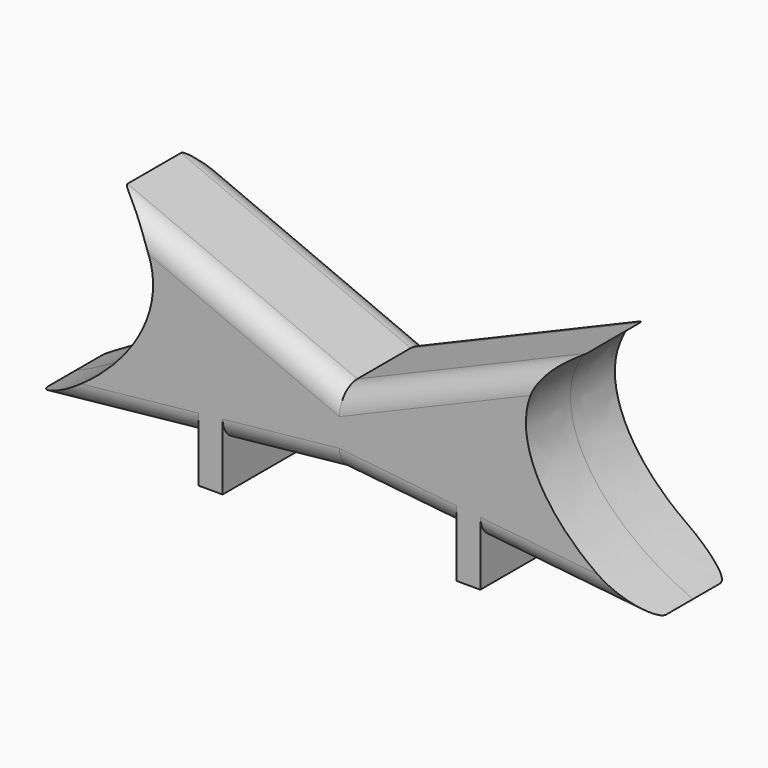
from build123d import *

# Parameters (mm, degrees)
F1_DEPTH = 12.7
F2_DEPTH = 25.4
F3_R     = 5.08
F5_DEPTH = 19.812


with BuildPart() as f1:
    # F0 (on Front) → F1 (new body)
    with BuildSketch(Plane.XZ):
        with BuildLine():
            Line((52.4458624423, 35.3338979185), (0, 13.1345894188))
            Line((0, 13.1345894188), (-52.4458624423, 35.3338979185))
            add(Edge.make_bspline(
                [(-52.4458624423, 35.3338979185), (-33.2064628601, 25.1592136919), (-43.5661375523, 0), (-70.5752968788, -11.2846475095)],
                knots=[0, 0, 0, 0, 50.0196478477, 50.0196478477, 50.0196478477, 50.0196478477], degree=3))
            Line((-70.5752968788, -11.2846475095), (-32.1640369767, -7.2572545808))
            Line((-32.1640369767, -7.2572545808), (-26.6933627427, -6.6836583285))
            Line((-26.6933627427, -6.6836583285), (0, -3.8848784752))
            Line((0, -3.8848784752), (26.6933627427, -6.6836583285))
            Line((26.6933627427, -6.6836583285), (32.1640369767, -7.2572545808))
            Line((32.1640369767, -7.2572545808), (70.5752968788, -11.2846475095))
            add(Edge.make_bspline(
                [(52.4458624423, 35.3338979185), (33.2064628601, 25.1592136919), (43.5661375523, 0), (70.5752968788, -11.2846475095)],
                knots=[0, 0, 0, 0, 50.0196478477, 50.0196478477, 50.0196478477, 50.0196478477], degree=3))
        make_face()
    extrude(amount=F1_DEPTH)

    # F0 (on Front) → F2 (join)
    with BuildSketch(Plane.XZ):
        with BuildLine():
            Line((52.4458624423, 35.3338979185), (0, 13.1345894188))
            Line((0, 13.1345894188), (-52.4458624423, 35.3338979185))
            add(Edge.make_bspline(
                [(-52.4458624423, 35.3338979185), (-33.2064628601, 25.1592136919), (-43.5661375523, 0), (-70.5752968788, -11.2846475095)],
                knots=[0, 0, 0, 0, 50.0196478477, 50.0196478477, 50.0196478477, 50.0196478477], degree=3))
            Line((-70.5752968788, -11.2846475095), (-32.1640369767, -7.2572545808))
            Line((-32.1640369767, -7.2572545808), (-26.6933627427, -6.6836583285))
            Line((-26.6933627427, -6.6836583285), (0, -3.8848784752))
            Line((0, -3.8848784752), (26.6933627427, -6.6836583285))
            Line((26.6933627427, -6.6836583285), (32.1640369767, -7.2572545808))
            Line((32.1640369767, -7.2572545808), (70.5752968788, -11.2846475095))
            add(Edge.make_bspline(
                [(52.4458624423, 35.3338979185), (33.2064628601, 25.1592136919), (43.5661375523, 0), (70.5752968788, -11.2846475095)],
                knots=[0, 0, 0, 0, 50.0196478477, 50.0196478477, 50.0196478477, 50.0196478477], degree=3))
        make_face()
        Polygon((-26.6933627427, -6.6836583285), (-32.1640369767, -7.2572545808), (-32.1640369767, -16.7267285287), (-26.6933627427, -16.7267285287), align=None)
        Polygon((32.1640369767, -16.7267285287), (32.1640369767, -7.2572545808), (26.6933627427, -6.6836583285), (26.6933627427, -16.7267285287), align=None)
    extrude(amount=F2_DEPTH)

    # F3
    f3_edges = [f1.edges().sort_by_distance(p)[0] for p in [
        (-26.222931, -25.4, 24.234244),
        (26.222931, -25.4, 24.234244),
        (-26.222931, 0, 24.234244),
        (26.222931, 0, 24.234244),
        (51.369667, -25.4, -9.270951),
        (13.346681, -25.4, -5.284268),
        (-13.346681, -25.4, -5.284268),
        (-51.369667, -25.4, -9.270951),
        (51.369667, 0, -9.270951),
        (13.346681, 0, -5.284268),
        (-13.346681, 0, -5.284268),
        (-51.369667, 0, -9.270951),
    ]]
    fillet(f3_edges, radius=F3_R)

    # F4 (on face) → F5 (join)
    with BuildSketch(Plane.XZ.offset(25.4)):
        with BuildLine():
            Line((-1.0620621516, 7.1502164938), (-12.1599985287, 7.1502164938))
            Line((-12.1599985287, 7.1502164938), (-12.1599985287, 2.2335385438))
            Line((-12.1599985287, 2.2335385438), (-11.2093127532, 2.2335385438))
            Line((-11.2093127532, 2.2335385438), (-9.1895056006, 6.5985840067))
            Line((-9.1895056006, 6.5985840067), (-11.8463042324, 6.5985840067))
            Line((-11.8463042324, 6.5985840067), (-11.8463042324, 7.1086039851))
            Line((-11.8463042324, 7.1086039851), (-8.6026625293, 7.1086039851))
            Line((-8.6026625293, 7.1086039851), (-8.6026625293, 6.6647372257))
            Line((-8.6026625293, 6.6647372257), (-10.5957949968, 2.2335385438))
            Line((-10.5957949968, 2.2335385438), (-7.6288252286, 2.2335385438))
            add(Edge.make_bspline(
                [(-7.6288252286, 2.2335385438), (-7.6332434575, 2.2374605361), (-7.6375724239, 2.2415409493)],
                knots=[0.9611752535, 0.9611752535, 0.9611752535, 1, 1, 1], degree=2))
            add(Edge.make_bspline(
                [(-7.6375724239, 2.2415409493), (-7.7490726074, 2.3466392085), (-7.7490726074, 2.586711374)],
                knots=[0, 0, 0, 1, 1, 1], degree=2))
            add(Edge.make_bspline(
                [(-7.7490726074, 2.586711374), (-7.7490726074, 2.8107787285), (-7.6471753105, 2.9254798742)],
                knots=[0, 0, 0, 1, 1, 1], degree=2))
            add(Edge.make_bspline(
                [(-7.6471753105, 2.9254798742), (-7.5452780136, 3.04018102), (-7.355354256, 3.04018102)],
                knots=[0, 0, 0, 1, 1, 1], degree=2))
            add(Edge.make_bspline(
                [(-7.355354256, 3.04018102), (-7.1622295361, 3.04018102), (-7.0539303148, 2.9254798742)],
                knots=[0, 0, 0, 1, 1, 1], degree=2))
            add(Edge.make_bspline(
                [(-7.0539303148, 2.9254798742), (-6.9456310935, 2.8107787285), (-6.9456310935, 2.586711374)],
                knots=[0, 0, 0, 1, 1, 1], degree=2))
            add(Edge.make_bspline(
                [(-6.9456310935, 2.586711374), (-6.9456310935, 2.3701129313), (-7.0555307959, 2.2532778107)],
                knots=[0, 0, 0, 1, 1, 1], degree=2))
            add(Edge.make_bspline(
                [(-7.0555307959, 2.2532778107), (-7.0652437796, 2.2429518718), (-7.0755818393, 2.2335385438)],
                knots=[0, 0, 0, 0.0883804366, 0.0883804366, 0.0883804366], degree=2))
            Line((-7.0755818393, 2.2335385438), (-3.9249897575, 2.2335385438))
            Line((-3.9249897575, 2.2335385438), (-3.9249897575, 3.3538753163))
            Line((-3.9249897575, 3.3538753163), (-6.2958357654, 3.3538753163))
            Line((-6.2958357654, 3.3538753163), (-6.2958357654, 3.8372206095))
            Line((-6.2958357654, 3.8372206095), (-3.9815400898, 7.1352786701))
            Line((-3.9815400898, 7.1352786701), (-3.3946970185, 7.1352786701))
            Line((-3.3946970185, 7.1352786701), (-3.3946970185, 3.8574933702))
            Line((-3.3946970185, 3.8574933702), (-2.6712795597, 3.8574933702))
            Line((-2.6712795597, 3.8574933702), (-2.6712795597, 3.3538753163))
            Line((-2.6712795597, 3.3538753163), (-3.3946970185, 3.3538753163))
            Line((-3.3946970185, 3.3538753163), (-3.3946970185, 2.2335385438))
            Line((-3.3946970185, 2.2335385438), (-1.640698507, 2.2335385438))
            add(Edge.make_bspline(
                [(-1.640698507, 2.2335385438), (-1.9389440856, 2.2937967953), (-2.2210108759, 2.4298642258)],
                knots=[0.0691615274, 0.0691615274, 0.0691615274, 1, 1, 1], degree=2))
            Line((-2.2210108759, 2.4298642258), (-2.2210108759, 2.9569560026))
            add(Edge.make_bspline(
                [(-2.2210108759, 2.9569560026), (-1.9041156174, 2.8001088544), (-1.5456078503, 2.7184843182)],
                knots=[0, 0, 0, 1, 1, 1], degree=2))
            add(Edge.make_bspline(
                [(-1.5456078503, 2.7184843182), (-1.1871000831, 2.6368597819), (-0.8670038624, 2.6368597819)],
                knots=[0, 0, 0, 1, 1, 1], degree=2))
            add(Edge.make_bspline(
                [(-0.8670038624, 2.6368597819), (0.396309222, 2.6368597819), (0.396309222, 3.6270240913)],
                knots=[0, 0, 0, 1, 1, 1], degree=2))
            add(Edge.make_bspline(
                [(0.396309222, 3.6270240913), (0.396309222, 4.51475761), (-0.9971763255, 4.51475761)],
                knots=[0, 0, 0, 1, 1, 1], degree=2))
            Line((-0.9971763255, 4.51475761), (-1.4773206565, 4.51475761))
            Line((-1.4773206565, 4.51475761), (-1.4773206565, 4.9906339914))
            Line((-1.4773206565, 4.9906339914), (-0.990774401, 4.9906339914))
            add(Edge.make_bspline(
                [(-0.990774401, 4.9906339914), (-0.4210031282, 4.9906339914), (-0.087569565, 5.2424430184)],
                knots=[0, 0, 0, 1, 1, 1], degree=2))
            add(Edge.make_bspline(
                [(-0.087569565, 5.2424430184), (0.2458639983, 5.4942520453), (0.2458639983, 5.9413197669)],
                knots=[0, 0, 0, 1, 1, 1], degree=2))
            add(Edge.make_bspline(
                [(0.2458639983, 5.9413197669), (0.2458639983, 6.2976935593), (0.0009903894, 6.5014881531)],
                knots=[0, 0, 0, 1, 1, 1], degree=2))
            add(Edge.make_bspline(
                [(0.0009903894, 6.5014881531), (-0.2438832194, 6.705282747), (-0.6642762559, 6.705282747)],
                knots=[0, 0, 0, 1, 1, 1], degree=2))
            add(Edge.make_bspline(
                [(-0.6642762559, 6.705282747), (-0.9843724766, 6.705282747), (-1.2676576319, 6.6183232737)],
                knots=[0, 0, 0, 1, 1, 1], degree=2))
            add(Edge.make_bspline(
                [(-1.2676576319, 6.6183232737), (-1.5509427873, 6.5313638004), (-1.9147854915, 6.2976935593)],
                knots=[0, 0, 0, 1, 1, 1], degree=2))
            Line((-1.9147854915, 6.2976935593), (-2.1943361909, 6.6711391501))
            add(Edge.make_bspline(
                [(-2.1943361909, 6.6711391501), (-1.8945127308, 6.9080103534), (-1.5029283542, 7.0429842598)],
                knots=[0, 0, 0, 1, 1, 1], degree=2))
            add(Edge.make_bspline(
                [(-1.5029283542, 7.0429842598), (-1.2888719394, 7.116766648), (-1.0620621516, 7.1502164938)],
                knots=[0, 0, 0, 0.5466418669, 0.5466418669, 0.5466418669], degree=2))
        make_face()
        with BuildLine():
            add(Edge.make_bspline(
                [(-7.6375724239, 5.1864261798), (-7.7490726074, 5.2915244389), (-7.7490726074, 5.5315966044)],
                knots=[0, 0, 0, 1, 1, 1], degree=2))
            add(Edge.make_bspline(
                [(-7.7490726074, 5.5315966044), (-7.7490726074, 5.9818652882), (-7.355354256, 5.9818652882)],
                knots=[0, 0, 0, 1, 1, 1], degree=2))
            add(Edge.make_bspline(
                [(-7.355354256, 5.9818652882), (-6.9456310935, 5.9818652882), (-6.9456310935, 5.5315966044)],
                knots=[0, 0, 0, 1, 1, 1], degree=2))
            add(Edge.make_bspline(
                [(-6.9456310935, 5.5315966044), (-6.9456310935, 5.3149981617), (-7.0555307959, 5.1981630412)],
                knots=[0, 0, 0, 1, 1, 1], degree=2))
            add(Edge.make_bspline(
                [(-7.0555307959, 5.1981630412), (-7.1654304983, 5.0813279206), (-7.355354256, 5.0813279206)],
                knots=[0, 0, 0, 1, 1, 1], degree=2))
            add(Edge.make_bspline(
                [(-7.355354256, 5.0813279206), (-7.5260722403, 5.0813279206), (-7.6375724239, 5.1864261798)],
                knots=[0, 0, 0, 1, 1, 1], degree=2))
        make_face(mode=Mode.SUBTRACT)
        with BuildLine():
            Line((12.5685015078, 7.1502164938), (-0.2893760982, 7.1502164938))
            add(Edge.make_bspline(
                [(-0.2893760982, 7.1502164938), (0.1475144145, 7.0830202677), (0.4261848693, 6.8530605022)],
                knots=[0.2922086215, 0.2922086215, 0.2922086215, 1, 1, 1], degree=2))
            add(Edge.make_bspline(
                [(0.4261848693, 6.8530605022), (0.8199032207, 6.5281628382), (0.8199032207, 5.9615925276)],
                knots=[0, 0, 0, 1, 1, 1], degree=2))
            add(Edge.make_bspline(
                [(0.8199032207, 5.9615925276), (0.8199032207, 5.4942520453), (0.5579578134, 5.1976295475)],
                knots=[0, 0, 0, 1, 1, 1], degree=2))
            add(Edge.make_bspline(
                [(0.5579578134, 5.1976295475), (0.2960124062, 4.9010070496), (-0.1841319249, 4.8007102338)],
                knots=[0, 0, 0, 1, 1, 1], degree=2))
            Line((-0.1841319249, 4.8007102338), (-0.1841319249, 4.7740355488))
            add(Edge.make_bspline(
                [(-0.1841319249, 4.7740355488), (0.4027111464, 4.7014804054), (0.6859963017, 4.4011234516)],
                knots=[0, 0, 0, 1, 1, 1], degree=2))
            add(Edge.make_bspline(
                [(0.6859963017, 4.4011234516), (0.969281457, 4.1007664979), (0.969281457, 3.6142202424)],
                knots=[0, 0, 0, 1, 1, 1], degree=2))
            add(Edge.make_bspline(
                [(0.969281457, 3.6142202424), (0.969281457, 2.9174774687), (0.4859361638, 2.5418979031)],
                knots=[0, 0, 0, 1, 1, 1], degree=2))
            add(Edge.make_bspline(
                [(0.4859361638, 2.5418979031), (0.2070735074, 2.3252099228), (-0.2071054134, 2.2335385438)],
                knots=[0, 0, 0, 0.5769429439, 0.5769429439, 0.5769429439], degree=2))
            Line((-0.2071054134, 2.2335385438), (3.8138698717, 2.2335385438))
            Line((3.8138698717, 2.2335385438), (3.8138698717, 7.1086039851))
            Line((3.8138698717, 7.1086039851), (6.5314867854, 7.1086039851))
            Line((6.5314867854, 7.1086039851), (6.5314867854, 6.6049859312))
            Line((6.5314867854, 6.6049859312), (4.3804401823, 6.6049859312))
            Line((4.3804401823, 6.6049859312), (4.3804401823, 4.8209829945))
            Line((4.3804401823, 4.8209829945), (6.4013143223, 4.8209829945))
            Line((6.4013143223, 4.8209829945), (6.4013143223, 4.3173649406))
            Line((6.4013143223, 4.3173649406), (4.3804401823, 4.3173649406))
            Line((4.3804401823, 4.3173649406), (4.3804401823, 2.2335385438))
            Line((4.3804401823, 2.2335385438), (7.3381292616, 2.2335385438))
            Line((7.3381292616, 2.2335385438), (7.3381292616, 7.1086039851))
            Line((7.3381292616, 7.1086039851), (8.6750644767, 7.1086039851))
            add(Edge.make_bspline(
                [(8.6750644767, 7.1086039851), (9.5724008821, 7.1086039851), (10.0007963241, 6.7650340415)],
                knots=[0, 0, 0, 1, 1, 1], degree=2))
            add(Edge.make_bspline(
                [(10.0007963241, 6.7650340415), (10.4291917661, 6.421464098), (10.4291917661, 5.7311232487)],
                knots=[0, 0, 0, 1, 1, 1], degree=2))
            add(Edge.make_bspline(
                [(10.4291917661, 5.7311232487), (10.4291917661, 4.7644326621), (9.4486303434, 4.4240636808)],
                knots=[0, 0, 0, 1, 1, 1], degree=2))
            Line((9.4486303434, 4.4240636808), (10.7727617097, 2.2335385438))
            Line((10.7727617097, 2.2335385438), (11.5591314252, 2.2335385438))
            Line((11.5591314252, 2.2335385438), (11.5591314252, 7.1086039851))
            Line((11.5591314252, 7.1086039851), (12.1257017358, 7.1086039851))
            Line((12.1257017358, 7.1086039851), (12.1257017358, 2.2335385438))
            Line((12.1257017358, 2.2335385438), (12.5685015078, 2.2335385438))
            Line((12.5685015078, 2.2335385438), (12.5685015078, 7.1502164938))
        make_face()
    extrude(amount=-F5_DEPTH)


solid = f1.part
